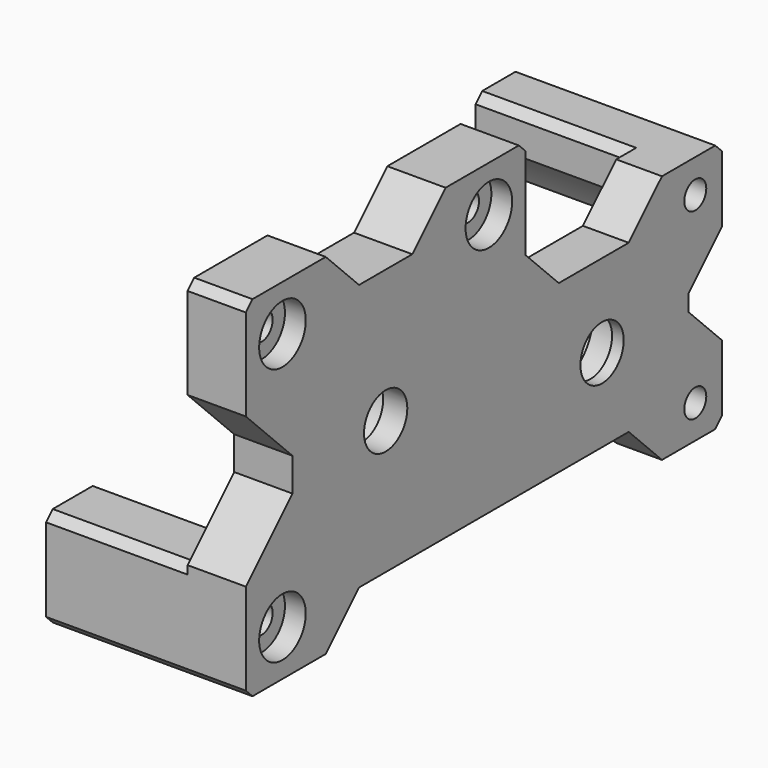
from build123d import *

# Parameters (mm, degrees)
CYLINDER011034_R         = 3.25
CYLINDER011034_DEPTH     = 10
CYLINDER011035_R         = 3.25
CYLINDER011035_DEPTH     = 10
CYLINDER011027_R         = 1.65
CYLINDER011027_DEPTH     = 31
CYLINDER011024_R         = 1.65
CYLINDER011024_DEPTH     = 10
CYLINDER011023_R         = 1.65
CYLINDER011023_DEPTH     = 10
CYLINDER011028_R         = 1.65
CYLINDER011028_DEPTH     = 20
CYLINDER011029_R         = 1.65
CYLINDER011029_DEPTH     = 20
CYLINDER011033_R         = 5.55
CYLINDER011033_DEPTH     = 4.1
CYLINDER011032_R         = 5.55
CYLINDER011032_DEPTH     = 4.1
CYLINDER011021_R         = 3.5
CYLINDER011021_DEPTH     = 10
CYLINDER011022_R         = 3.5
CYLINDER011022_DEPTH     = 10
CYLINDER011025_R         = 3.5
CYLINDER011025_DEPTH     = 10
CYLINDER011062_R         = 15
CYLINDER011062_DEPTH     = 22
CYLINDER011061_R         = 1.65
CYLINDER011061_DEPTH     = 18
CYLINDER011058_R         = 1.65
CYLINDER011058_DEPTH     = 18
BOX037_W                 = 18.5
BOX037_H                 = 7
BOX037_DEPTH             = 9
BOX038_W                 = 18.5
BOX038_H                 = 7
BOX038_DEPTH             = 9
CHAMFER024015_SIZE       = 1
BOX022_W                 = 15
BOX022_H                 = 50.5
BOX022_DEPTH             = 10
CHAMFER_SIZE             = 5
BOX023_W                 = 15
BOX023_H                 = 18
BOX023_DEPTH             = 10
CHAMFER016_SIZE          = 5
BOX024_W                 = 18
BOX024_H                 = 20.5
BOX024_DEPTH             = 10
CHAMFER024014_SIZE       = 5
BOX020_W                 = 15
BOX020_H                 = 9
BOX020_DEPTH             = 12
CHAMFER018_SIZE          = 5
BOX021_W                 = 10
BOX021_H                 = 10
BOX021_DEPTH             = 18
CHAMFER017_SIZE          = 7
BOX010_W                 = 5.5
BOX010_H                 = 29.5
BOX010_DEPTH             = 30
BOX009_W                 = 7
BOX009_H                 = 42
BOX009_DEPTH             = 42
CHAMFER024018_SIZE       = 1
BOX018_W                 = 17
BOX018_H                 = 12
BOX018_DEPTH             = 12
CHAMFER024016_SIZE       = 5
CHAMFER024017_SIZE       = 1
CHAMFER024034004007_SIZE = 1


with BuildPart() as cylinder011034:
    # Cylinder011034 → Cylinder011034 (new body)
    with BuildSketch(Plane(origin=(22.5, 32.5, 15), x_dir=(0, 0, -1), z_dir=(1, 0, 0))):
        Circle(CYLINDER011034_R)
    extrude(amount=CYLINDER011034_DEPTH)


with BuildPart() as fusion006002011004053008:
    # Cylinder011035 → Cylinder011035 (new body)
    with BuildSketch(Plane(origin=(22.5, 0, 21), x_dir=(0, 0, -1), z_dir=(1, 0, 0))):
        Circle(CYLINDER011035_R)
    extrude(amount=CYLINDER011035_DEPTH)

    # Fusion006002011004053008: union Cylinder011034
    add(cylinder011034.part)


with BuildPart() as cylinder011027:
    # Cylinder011027 → Cylinder011027 (new body)
    with BuildSketch(Plane(origin=(5, -15.5, 5.5), x_dir=(0, 0, -1), z_dir=(1, 0, 0))):
        Circle(CYLINDER011027_R)
    extrude(amount=CYLINDER011027_DEPTH)


with BuildPart() as cylinder011024:
    # Cylinder011024 → Cylinder011024 (new body)
    with BuildSketch(Plane(origin=(21, 15.5, 36.5), x_dir=(0, 0, -1), z_dir=(1, 0, 0))):
        Circle(CYLINDER011024_R)
    extrude(amount=CYLINDER011024_DEPTH)


with BuildPart() as fusion006002011004010:
    # Cylinder011023 → Cylinder011023 (new body)
    with BuildSketch(Plane(origin=(21, -15.5, 36.5), x_dir=(0, 0, -1), z_dir=(1, 0, 0))):
        Circle(CYLINDER011023_R)
    extrude(amount=CYLINDER011023_DEPTH)

    # Fusion006002011004010: union Cylinder011027, Cylinder011024
    add(cylinder011027.part)
    add(cylinder011024.part)


with BuildPart() as cylinder011028:
    # Cylinder011028 → Cylinder011028 (new body)
    with BuildSketch(Plane(origin=(-24, 45, 26), x_dir=(0, 0, -1), z_dir=(1, 0, 0))):
        Circle(CYLINDER011028_R)
    extrude(amount=CYLINDER011028_DEPTH)


with BuildPart() as fusion006002011004013:
    # Cylinder011029 → Cylinder011029 (new body)
    with BuildSketch(Plane(origin=(-24, 45, 4), x_dir=(0, 0, -1), z_dir=(1, 0, 0))):
        Circle(CYLINDER011029_R)
    extrude(amount=CYLINDER011029_DEPTH)

    # Fusion006002011004013: union Cylinder011028
    add(cylinder011028.part)


with BuildPart() as fusion006002011004013_1:
    # Fusion006002011004013 placement: moved
    add(fusion006002011004013.part.moved(Location((40, 1.5, 0))))


with BuildPart() as cylinder011033:
    # Cylinder011033 → Cylinder011033 (new body)
    with BuildSketch(Plane(origin=(24.5, 32.5, 15), x_dir=(0, 0, -1), z_dir=(1, 0, 0))):
        Circle(CYLINDER011033_R)
    extrude(amount=CYLINDER011033_DEPTH)


with BuildPart() as fusion006002011004053017:
    # Cylinder011032 → Cylinder011032 (new body)
    with BuildSketch(Plane(origin=(23, 0, 21), x_dir=(0, 0, -1), z_dir=(1, 0, 0))):
        Circle(CYLINDER011032_R)
    extrude(amount=CYLINDER011032_DEPTH)

    # Fusion006002011004053017: union Cylinder011033
    add(cylinder011033.part)


with BuildPart() as cylinder011021:
    # Cylinder011021 → Cylinder011021 (new body)
    with BuildSketch(Plane(origin=(21, 15.5, 36.5), x_dir=(0, 0, -1), z_dir=(1, 0, 0))):
        Circle(CYLINDER011021_R)
    extrude(amount=CYLINDER011021_DEPTH)


with BuildPart() as cylinder011022:
    # Cylinder011022 → Cylinder011022 (new body)
    with BuildSketch(Plane(origin=(21, -15.5, 36.5), x_dir=(0, 0, -1), z_dir=(1, 0, 0))):
        Circle(CYLINDER011022_R)
    extrude(amount=CYLINDER011022_DEPTH)


with BuildPart() as fusion006002011004053019:
    # Cylinder011025 → Cylinder011025 (new body)
    with BuildSketch(Plane(origin=(21, -15.5, 5.5), x_dir=(0, 0, -1), z_dir=(1, 0, 0))):
        Circle(CYLINDER011025_R)
    extrude(amount=CYLINDER011025_DEPTH)

    # Fusion006002011004012: union Cylinder011021, Cylinder011022
    add(cylinder011021.part)
    add(cylinder011022.part)


with BuildPart() as fusion006002011004053019_1:
    # Fusion006002011004012 placement: moved
    add(fusion006002011004053019.part.moved(Location((6.5, 0, 0))))

    # Fusion006002011004053019: union Fusion006002011004053008, Fusion006002011004010, Fusion006002011004013, Fusion006002011004053017
    add(fusion006002011004053008.part)
    add(fusion006002011004010.part)
    add(fusion006002011004013_1.part)
    add(fusion006002011004053017.part)


with BuildPart() as cylinder011062:
    # Cylinder011062 → Cylinder011062 (new body)
    with BuildSketch(Plane(origin=(6, 32.5, 15), x_dir=(0, 0, -1), z_dir=(1, 0, 0))):
        Circle(CYLINDER011062_R)
    extrude(amount=CYLINDER011062_DEPTH)


with BuildPart() as cylinder011061:
    # Cylinder011061 → Cylinder011061 (new body)
    with BuildSketch(Plane(origin=(6, 45, 26), x_dir=(0, 0, -1), z_dir=(1, 0, 0))):
        Circle(CYLINDER011061_R)
    extrude(amount=CYLINDER011061_DEPTH)


with BuildPart() as fusion006002011004052:
    # Cylinder011058 → Cylinder011058 (new body)
    with BuildSketch(Plane(origin=(6, 45, 4), x_dir=(0, 0, -1), z_dir=(1, 0, 0))):
        Circle(CYLINDER011058_R)
    extrude(amount=CYLINDER011058_DEPTH)

    # Fusion006002011004052: union Cylinder011061
    add(cylinder011061.part)


with BuildPart() as fusion006002011004052_1:
    # Fusion006002011004052 placement: moved
    add(fusion006002011004052.part.moved(Location((0, 1.5, 0))))


with BuildPart() as cube036:
    # Box037 → Box037 (new body)
    with BuildSketch(Plane(origin=(6, 43.5, 0), x_dir=(1, 0, 0), z_dir=(0, 0, 1))):
        with Locations((9.25, 3.5)):
            Rectangle(BOX037_W, BOX037_H)
    extrude(amount=BOX037_DEPTH)


with BuildPart() as cut001063008009007:
    # Box038 → Box038 (new body)
    with BuildSketch(Plane(origin=(6, 43.5, 21), x_dir=(1, 0, 0), z_dir=(0, 0, 1))):
        with Locations((9.25, 3.5)):
            Rectangle(BOX038_W, BOX038_H)
    extrude(amount=BOX038_DEPTH)

    # Fusion006002011004053015: union Cube036
    add(cube036.part)

    # Cut001063008010: cut Fusion006002011004052
    add(fusion006002011004052_1.part, mode=Mode.SUBTRACT)

    # Chamfer024015
    chamfer024015_edges = [cut001063008009007.edges().sort_by_distance(p)[0] for p in [
        (15.25, 43.5, 30),
        (15.25, 50.5, 30),
        (15.25, 50.5, 21),
        (15.25, 43.5, 0),
        (15.25, 50.5, 9),
        (15.25, 50.5, 0),
    ]]
    chamfer(chamfer024015_edges, length=CHAMFER024015_SIZE)

    # Cut001063008009007: cut Cylinder011062
    add(cylinder011062.part, mode=Mode.SUBTRACT)


with BuildPart() as chamfer_body:
    # Box022 → Box022 (new body)
    with BuildSketch(Plane(origin=(21, -9, -5), x_dir=(1, 0, 0), z_dir=(0, 0, 1))):
        with Locations((7.5, 25.25)):
            Rectangle(BOX022_W, BOX022_H)
    extrude(amount=BOX022_DEPTH)

    # Chamfer
    chamfer_edges = [chamfer_body.edges().sort_by_distance(p)[0] for p in [
        (28.5, -9, 5),
        (28.5, 41.5, 5),
    ]]
    chamfer(chamfer_edges, length=CHAMFER_SIZE)


with BuildPart() as chamfer016:
    # Box023 → Box023 (new body)
    with BuildSketch(Plane(origin=(21, -9, 37), x_dir=(1, 0, 0), z_dir=(0, 0, 1))):
        with Locations((7.5, 9)):
            Rectangle(BOX023_W, BOX023_H)
    extrude(amount=BOX023_DEPTH)

    # Chamfer016
    chamfer016_edges = [chamfer016.edges().sort_by_distance(p)[0] for p in [
        (28.5, -9, 37),
        (28.5, 9, 37),
    ]]
    chamfer(chamfer016_edges, length=CHAMFER016_SIZE)


with BuildPart() as chamfer024014:
    # Box024 → Box024 (new body)
    with BuildSketch(Plane(origin=(21, 21, 25), x_dir=(1, 0, 0), z_dir=(0, 0, 1))):
        with Locations((9, 10.25)):
            Rectangle(BOX024_W, BOX024_H)
    extrude(amount=BOX024_DEPTH)

    # Chamfer024014
    chamfer024014_edges = [chamfer024014.edges().sort_by_distance(p)[0] for p in [
        (30, 21, 25),
        (30, 41.5, 25),
    ]]
    chamfer(chamfer024014_edges, length=CHAMFER024014_SIZE)


with BuildPart() as chamfer018:
    # Box020 → Box020 (new body)
    with BuildSketch(Plane(origin=(21, 44, 9), x_dir=(1, 0, 0), z_dir=(0, 0, 1))):
        with Locations((7.5, 4.5)):
            Rectangle(BOX020_W, BOX020_H)
    extrude(amount=BOX020_DEPTH)

    # Chamfer018
    chamfer018_edges = [chamfer018.edges().sort_by_distance(p)[0] for p in [
        (28.5, 44, 9),
        (28.5, 44, 21),
    ]]
    chamfer(chamfer018_edges, length=CHAMFER018_SIZE)


with BuildPart() as chamfer018_1:
    # Chamfer018 placement: moved
    add(chamfer018.part.moved(Location((0, 1.5, 0))))


with BuildPart() as fusion006002011004053007:
    # Box021 → Box021 (new body)
    with BuildSketch(Plane(origin=(21, -24, 12), x_dir=(1, 0, 0), z_dir=(0, 0, 1))):
        with Locations((5, 5)):
            Rectangle(BOX021_W, BOX021_H)
    extrude(amount=BOX021_DEPTH)

    # Chamfer017
    chamfer017_edges = [fusion006002011004053007.edges().sort_by_distance(p)[0] for p in [
        (26, -14, 12),
        (26, -14, 30),
    ]]
    chamfer(chamfer017_edges, length=CHAMFER017_SIZE)

    # Fusion006002011004053007: union Chamfer body, Chamfer016, Chamfer024014, Chamfer018
    add(chamfer_body.part)
    add(chamfer016.part)
    add(chamfer024014.part)
    add(chamfer018_1.part)


with BuildPart() as cube009:
    # Box010 → Box010 (new body)
    with BuildSketch(Plane(origin=(24.5, 21, 0), x_dir=(1, 0, 0), z_dir=(0, 0, 1))):
        with Locations((2.75, 14.75)):
            Rectangle(BOX010_W, BOX010_H)
    extrude(amount=BOX010_DEPTH)


with BuildPart() as cut001063008012:
    # Box009 → Box009 (new body)
    with BuildSketch(Plane(origin=(23, -21, 0), x_dir=(1, 0, 0), z_dir=(0, 0, 1))):
        with Locations((3.5, 21)):
            Rectangle(BOX009_W, BOX009_H)
    extrude(amount=BOX009_DEPTH)

    # Fusion006002011004053016: union Cube009
    add(cube009.part)

    # Chamfer024018
    chamfer024018_edges = [cut001063008012.edges().sort_by_distance(p)[0] for p in [
        (26.5, -21, 0),
        (26.5, -21, 42),
        (26.5, 21, 42),
        (27.25, 50.5, 30),
        (27.25, 50.5, 0),
    ]]
    chamfer(chamfer024018_edges, length=CHAMFER024018_SIZE)

    # Cut001063008012: cut Fusion006002011004053007
    add(fusion006002011004053007.part, mode=Mode.SUBTRACT)


with BuildPart() as front_basic:
    # Box018 → Box018 (new body)
    with BuildSketch(Plane(origin=(6, -21, 0), x_dir=(1, 0, 0), z_dir=(0, 0, 1))):
        with Locations((8.5, 6)):
            Rectangle(BOX018_W, BOX018_H)
    extrude(amount=BOX018_DEPTH)

    # Chamfer024016
    chamfer024016_edges = [front_basic.edges().sort_by_distance(p)[0] for p in [
        (14.5, -9, 12),
    ]]
    chamfer(chamfer024016_edges, length=CHAMFER024016_SIZE)

    # Chamfer024017
    chamfer024017_edges = [front_basic.edges().sort_by_distance(p)[0] for p in [
        (14.5, -21, 0),
    ]]
    chamfer(chamfer024017_edges, length=CHAMFER024017_SIZE)

    # Chamfer024034004007
    chamfer024034004007_edges = [front_basic.edges().sort_by_distance(p)[0] for p in [
        (14.5, -21, 12),
    ]]
    chamfer(chamfer024034004007_edges, length=CHAMFER024034004007_SIZE)

    # Fusion006002011004053029: union Cut001063008009007, Cut001063008012
    add(cut001063008009007.part)
    add(cut001063008012.part)

    # Cut001063008009006002: cut Fusion006002011004053019
    add(fusion006002011004053019_1.part, mode=Mode.SUBTRACT)


solid = front_basic.part
